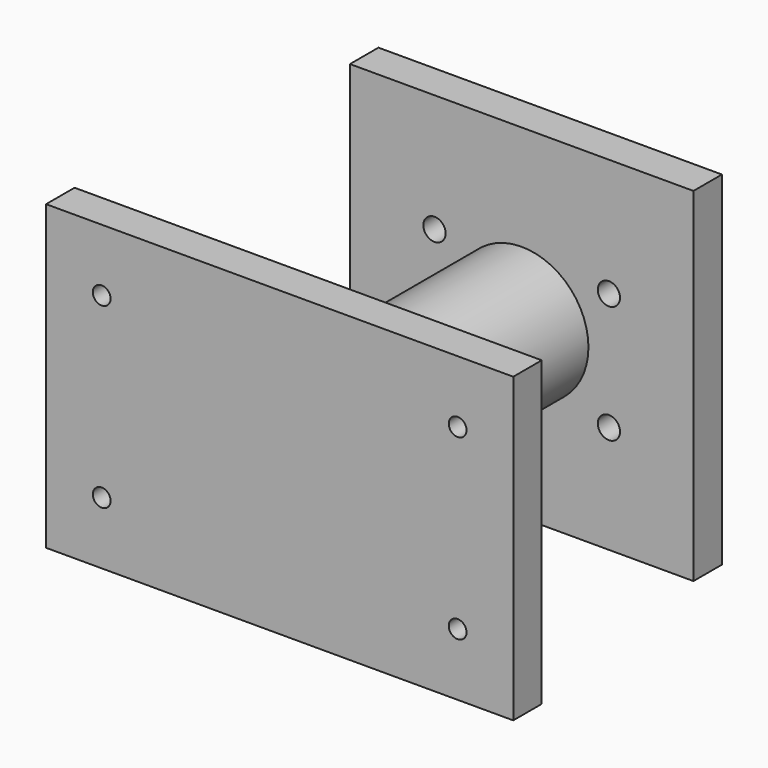
from build123d import *

# Parameters (mm, degrees)
F0_W     = 105
F0_H     = 68
F0_R     = 2
F1_DEPTH = 8
F2_R     = 15
F3_DEPTH = 60
F4_W     = 77.2
F4_H     = 77.2
F5_DEPTH = 8
F6_R     = 2.5
F7_DEPTH = 44.4


with BuildPart() as f1:
    # F0 (on Front) → F1 (new body)
    with BuildSketch(Plane.XZ):
        Rectangle(F0_W, F0_H)
        with Locations((-40, -20)):
            Circle(F0_R, mode=Mode.SUBTRACT)
        with Locations((40, -20)):
            Circle(F0_R, mode=Mode.SUBTRACT)
        with Locations((-40, 20)):
            Circle(F0_R, mode=Mode.SUBTRACT)
        with Locations((40, 20)):
            Circle(F0_R, mode=Mode.SUBTRACT)
    extrude(amount=F1_DEPTH)

    # F2 (on Front) → F3 (join)
    with BuildSketch(Plane.XZ):
        Circle(F2_R)
    extrude(amount=-F3_DEPTH)

    # F4 (on face) → F5 (join)
    with BuildSketch(Plane(origin=(0, 60, 0), x_dir=(-1, 0, 0), z_dir=(0, 1, 0))):
        Rectangle(F4_W, F4_H)
    extrude(amount=F5_DEPTH)

    # F6 (on face) → F7 (cut)
    with BuildSketch(Plane(origin=(0, 68, 0), x_dir=(-1, 0, 0), z_dir=(0, 1, 0))):
        with Locations((-19.6, 12.078193)):
            Circle(F6_R)
        with Locations((-19.6, -14.40448)):
            Circle(F6_R)
        with Locations((19.6, -14.40448)):
            Circle(F6_R)
        with Locations((19.6, 12.078193)):
            Circle(F6_R)
    extrude(amount=-F7_DEPTH, mode=Mode.SUBTRACT)


solid = f1.part
